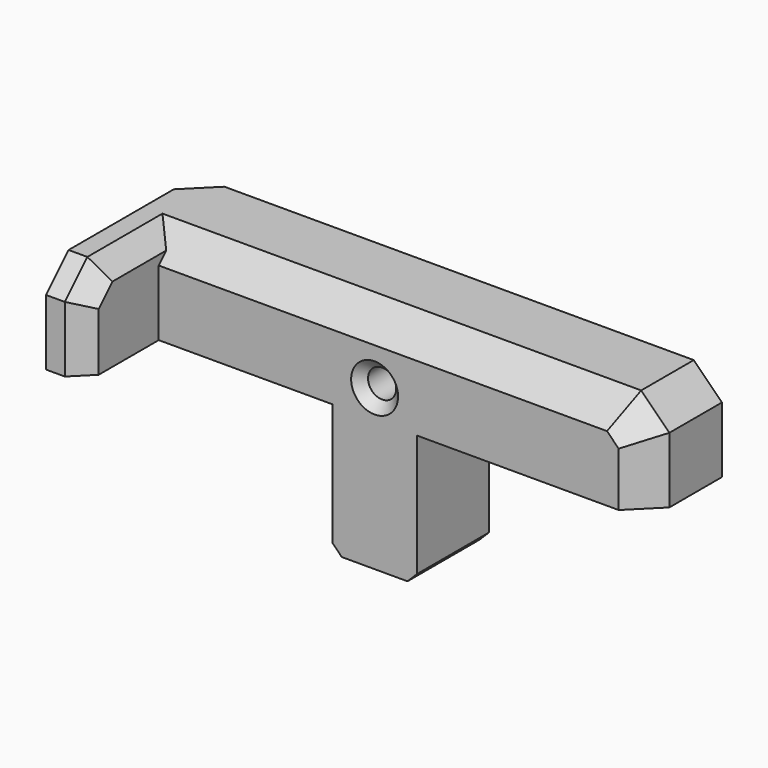
from build123d import *

# Parameters (mm, degrees)
CYLINDER013_R     = 1.5
CYLINDER013_DEPTH = 10
BOX030_W          = 55
BOX030_H          = 10
BOX030_DEPTH      = 10
CHAMFER035_SIZE   = 2
CHAMFER036_SIZE   = 3
CHAMFER037_SIZE   = 3
BOX031_W          = 4
BOX031_H          = 18
BOX031_DEPTH      = 10
CHAMFER031_SIZE   = 1
CHAMFER032_SIZE   = 3
CHAMFER033_SIZE   = 2
BOX032_W          = 3.5
BOX032_H          = 6.5
BOX032_DEPTH      = 10
BOX028_W          = 9
BOX028_H          = 10
BOX028_DEPTH      = 14
CHAMFER038_SIZE   = 1
CHAMFER039_SIZE   = 0.4
CHAMFER040_SIZE   = 1


with BuildPart() as cylinder013:
    # Cylinder013 → Cylinder013 (new body)
    with BuildSketch(Plane(origin=(-55, 46, 18), x_dir=(1, 0, 0), z_dir=(0, -1, 0))):
        Circle(CYLINDER013_R)
    extrude(amount=CYLINDER013_DEPTH)


with BuildPart() as chamfer037:
    # Box030 → Box030 (new body)
    with BuildSketch(Plane(origin=(-81, 36, 15), x_dir=(1, 0, 0), z_dir=(0, 0, 1))):
        with Locations((27.5, 5)):
            Rectangle(BOX030_W, BOX030_H)
    extrude(amount=BOX030_DEPTH)

    # Chamfer035
    chamfer035_edges = [chamfer037.edges().sort_by_distance(p)[0] for p in [
        (-81, 46, 20),
    ]]
    chamfer(chamfer035_edges, length=CHAMFER035_SIZE)

    # Chamfer036
    chamfer036_edges = [chamfer037.edges().sort_by_distance(p)[0] for p in [
        (-26, 41, 25),
    ]]
    chamfer(chamfer036_edges, length=CHAMFER036_SIZE)

    # Chamfer037
    chamfer037_edges = [chamfer037.edges().sort_by_distance(p)[0] for p in [
        (-55, 36, 25),
        (-26, 36, 18.5),
        (-27.5, 36, 23.5),
    ]]
    chamfer(chamfer037_edges, length=CHAMFER037_SIZE)


with BuildPart() as chamfer033:
    # Box031 → Box031 (new body)
    with BuildSketch(Plane(origin=(-82, 26, 15), x_dir=(1, 0, 0), z_dir=(0, 0, 1))):
        with Locations((2, 9)):
            Rectangle(BOX031_W, BOX031_H)
    extrude(amount=BOX031_DEPTH)

    # Chamfer031
    chamfer031_edges = [chamfer033.edges().sort_by_distance(p)[0] for p in [
        (-82, 44, 20),
    ]]
    chamfer(chamfer031_edges, length=CHAMFER031_SIZE)

    # Chamfer032
    chamfer032_edges = [chamfer033.edges().sort_by_distance(p)[0] for p in [
        (-80, 26, 25),
    ]]
    chamfer(chamfer032_edges, length=CHAMFER032_SIZE)

    # Chamfer033
    chamfer033_edges = [chamfer033.edges().sort_by_distance(p)[0] for p in [
        (-78, 36.5, 25),
        (-78, 27.5, 23.5),
        (-78, 26, 18.5),
    ]]
    chamfer(chamfer033_edges, length=CHAMFER033_SIZE)


with BuildPart() as cube032:
    # Box032 → Box032 (new body)
    with BuildSketch(Plane(origin=(-57.5, 37.5, 0), x_dir=(1, 0, 0), z_dir=(0, 0, 1))):
        with Locations((1.75, 3.25)):
            Rectangle(BOX032_W, BOX032_H)
    extrude(amount=BOX032_DEPTH)


with BuildPart() as chamfer040:
    # Box028 → Box028 (new body)
    with BuildSketch(Plane(origin=(-59.5, 36, 1), x_dir=(1, 0, 0), z_dir=(0, 0, 1))):
        with Locations((4.5, 5)):
            Rectangle(BOX028_W, BOX028_H)
    extrude(amount=BOX028_DEPTH)

    # Cut006: cut Cube032
    add(cube032.part, mode=Mode.SUBTRACT)

    # Chamfer038
    chamfer038_edges = [chamfer040.edges().sort_by_distance(p)[0] for p in [
        (-59.5, 41, 1),
        (-50.5, 41, 1),
    ]]
    chamfer(chamfer038_edges, length=CHAMFER038_SIZE)

    # Chamfer039
    chamfer039_edges = [chamfer040.edges().sort_by_distance(p)[0] for p in [
        (-59.5, 46, 8.5),
        (-59, 46, 1.5),
        (-55, 46, 1),
        (-50.5, 46, 8.5),
        (-51, 46, 1.5),
        (-55.75, 37.5, 1),
        (-54, 40.75, 1),
        (-55.75, 44, 1),
        (-57.5, 40.75, 1),
    ]]
    chamfer(chamfer039_edges, length=CHAMFER039_SIZE)

    # Fusion002003011: union Chamfer037, Chamfer033
    add(chamfer037.part)
    add(chamfer033.part)

    # Cut007: cut Cylinder013
    add(cylinder013.part, mode=Mode.SUBTRACT)

    # Chamfer040
    chamfer040_edges = [chamfer040.edges().sort_by_distance(p)[0] for p in [
        (-56.5, 36, 18),
    ]]
    chamfer(chamfer040_edges, length=CHAMFER040_SIZE)


solid = chamfer040.part
